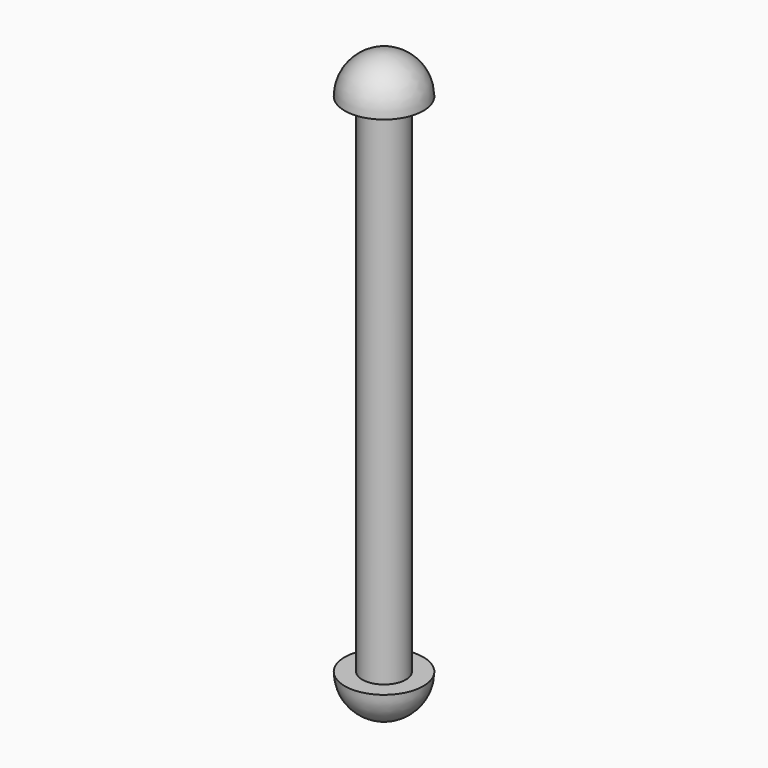
from build123d import *


with BuildPart() as f1:
    # F0 (on Front) → F1 (revolve)
    with BuildSketch(Plane.XZ):
        with BuildLine():
            Line((0, 85.09), (0, 0))
            ThreePointArc((0, 0), (4.041115, 1.673885), (5.715, 5.715))
            Line((5.715, 5.715), (3.175, 5.715))
            Line((3.175, 5.715), (3.175, 79.375))
            Line((3.175, 79.375), (5.715, 79.375))
            ThreePointArc((5.715, 79.375), (4.041115, 83.416115), (0, 85.09))
        make_face()
    revolve(axis=Axis((0, 0, 42.545), (0, 0, 1)))


solid = f1.part
